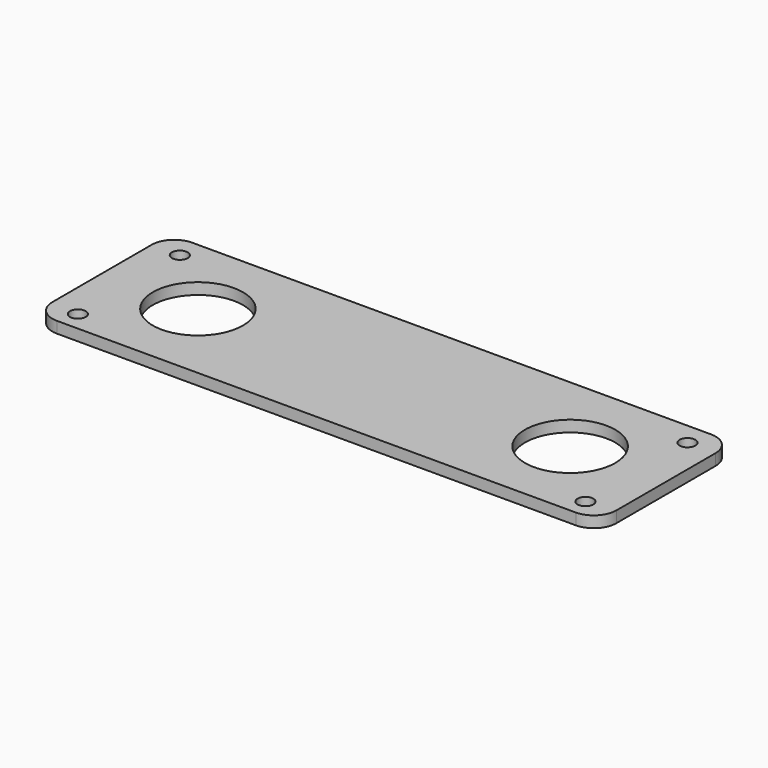
from build123d import *

# Parameters (mm, degrees)
F0_R     = 7
F0_R_2   = 40
F1_DEPTH = 10


with BuildPart() as f1:
    # F0 (on Top) → F1 (new body)
    with BuildSketch(Plane.XY):
        with BuildLine():
            Line((230, 75), (-230, 75))
            ThreePointArc((-230, 75), (-244.142136, 69.142136), (-250, 55))
            Line((-250, 55), (-250, -55))
            ThreePointArc((-250, -55), (-244.142136, -69.142136), (-230, -75))
            Line((-230, -75), (230, -75))
            ThreePointArc((230, -75), (244.142136, -69.142136), (250, -55))
            Line((250, -55), (250, 55))
            ThreePointArc((250, 55), (244.142136, 69.142136), (230, 75))
        make_face()
        with Locations((-225, -58)):
            Circle(F0_R, mode=Mode.SUBTRACT)
        with Locations((225, -58)):
            Circle(F0_R, mode=Mode.SUBTRACT)
        with Locations((-165, 0)):
            Circle(F0_R_2, mode=Mode.SUBTRACT)
        with Locations((-225, 55)):
            Circle(F0_R, mode=Mode.SUBTRACT)
        with Locations((165, 0)):
            Circle(F0_R_2, mode=Mode.SUBTRACT)
        with Locations((225, 55)):
            Circle(F0_R, mode=Mode.SUBTRACT)
    extrude(amount=F1_DEPTH)


solid = f1.part
